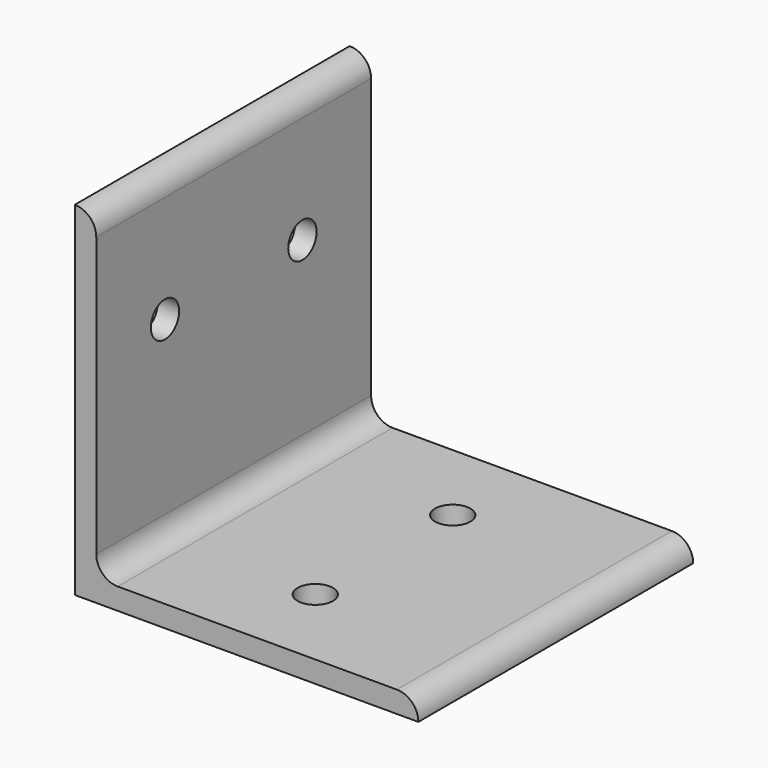
from build123d import *

# Parameters (mm, degrees)
F1_DEPTH = 50.8
F2_R     = 2.6162
F3_DEPTH = 3.176
F4_R     = 2.6162
F5_DEPTH = 50.801


with BuildPart() as f1:
    # F0 (on Front) → F1 (new body)
    with BuildSketch(Plane.XZ):
        with BuildLine():
            Line((-50.8, 0), (0, 0))
            ThreePointArc((0, 0), (-0.929936, 2.245064), (-3.175, 3.175))
            Line((-3.175, 3.175), (-44.45, 3.175))
            ThreePointArc((-44.45, 3.175), (-46.695064, 4.104936), (-47.625, 6.35))
            Line((-47.625, 6.35), (-47.625, 47.625))
            ThreePointArc((-47.625, 47.625), (-48.554936, 49.870064), (-50.8, 50.8))
            Line((-50.8, 50.8), (-50.8, 0))
        make_face()
    extrude(amount=F1_DEPTH)

    # F2 (on face) → F3 (cut, through all)
    with BuildSketch(Plane.XY.offset(3.175)):
        with Locations((-25.4, -38.1)):
            Circle(F2_R)
        with Locations((-25.4, -12.7)):
            Circle(F2_R)
    extrude(amount=-F3_DEPTH, mode=Mode.SUBTRACT)

    # F4 (on face) → F5 (cut, through all)
    with BuildSketch(Plane(origin=(-50.8, 0, 0), x_dir=(0, -1, 0), z_dir=(-1, 0, 0))):
        with Locations((12.7, 31.75)):
            Circle(F4_R)
        with Locations((38.1, 31.75)):
            Circle(F4_R)
    extrude(amount=-F5_DEPTH, mode=Mode.SUBTRACT)


solid = f1.part
